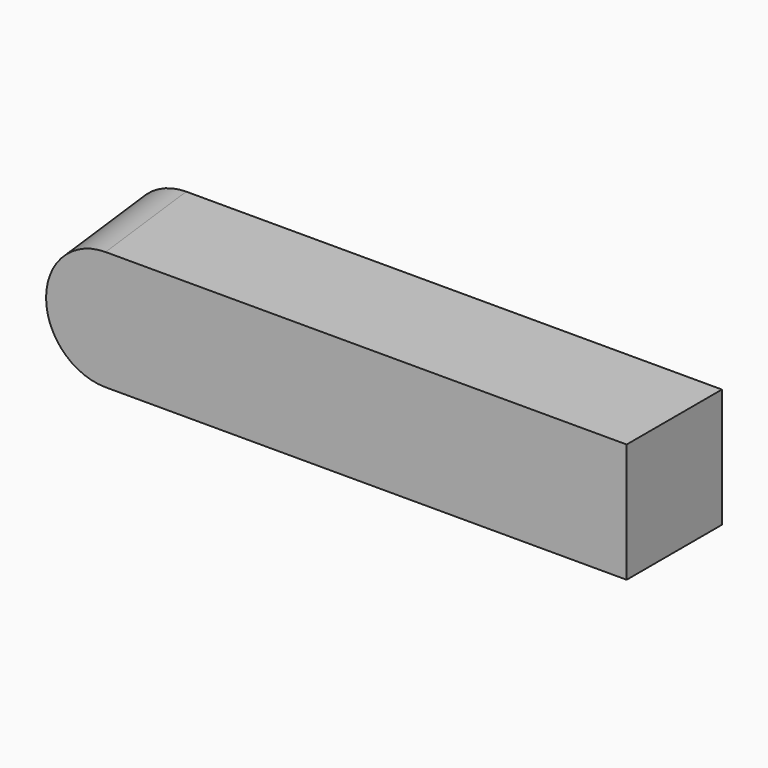
from build123d import *

# Parameters (mm, degrees)
F0_W     = 63.5
F0_H     = 12.7
F1_DEPTH = 12.7


with BuildPart() as f1:
    # F0 (on Front) → F1 (new body)
    with BuildSketch(Plane.XZ):
        with Locations((31.75, -6.35)):
            Rectangle(F0_W, F0_H)
    extrude(amount=-F1_DEPTH)

    # F3 (on face) → F4 section 0
    with BuildSketch(Plane.XZ):
        with BuildLine():
            ThreePointArc((7.9375, -12.7), (1.5875, -6.35), (7.9375, 0))
            Line((7.9375, 0), (0, 0))
            Line((0, 0), (0, -12.7))
            Line((0, -12.7), (7.9375, -12.7))
        make_face()
    # F2 (on face) → F4 section 1
    with BuildSketch(Plane(origin=(0, 12.7, 0), x_dir=(-1, 0, 0), z_dir=(0, 1, 0))):
        with BuildLine():
            ThreePointArc((-6.3754, 0), (-0.0254, -6.35), (-6.3754, -12.7))
            Line((-6.3754, -12.7), (0, -12.7))
            Line((0, -12.7), (0, 0))
            Line((0, 0), (-6.3754, 0))
        make_face()
    loft(mode=Mode.SUBTRACT)


solid = f1.part
